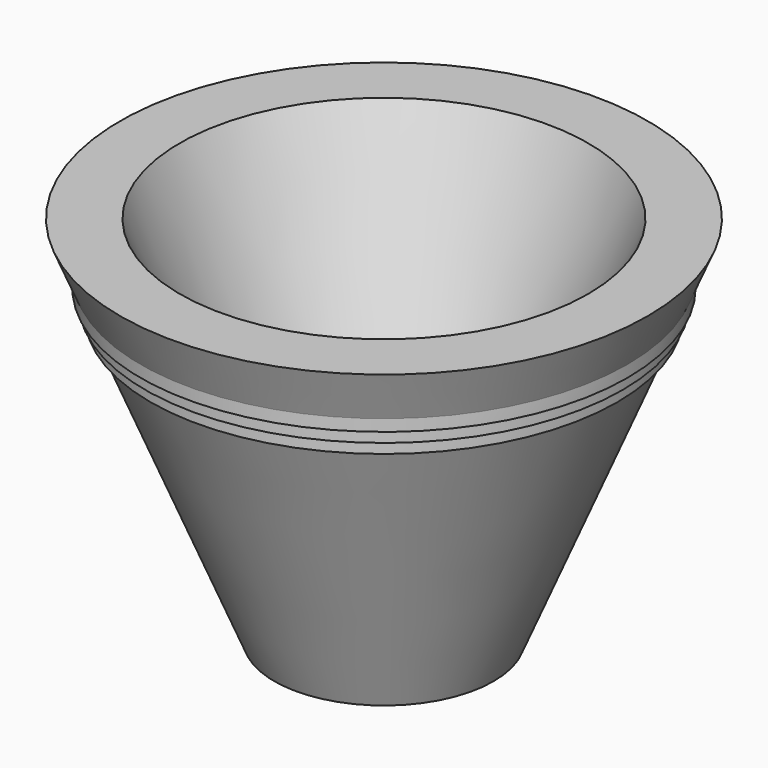
from build123d import *


with BuildPart() as f1:
    # F0 (on Front) → F1 (revolve)
    with BuildSketch(Plane.XZ):
        Polygon((0, 6.744939), (0, 0), (15, 0), (31.217516, 39.082341), (31.917099, 40.768255), (32.610763, 42.439904), (33.271743, 44.032791), (36.079848, 50.8), (27.916824, 50.8), (9.63584, 6.744939), align=None)
        Polygon((31.917099, 40.768255), (31.217516, 39.082341), (31.917099, 39.082341), align=None)
        Polygon((32.610763, 42.439904), (31.917099, 40.768255), (32.610763, 40.768255), align=None)
        Polygon((33.271743, 44.032791), (32.610763, 42.439904), (33.271743, 42.439904), align=None)
    revolve(axis=Axis((0, 0, 25.4), (0, 0, 1)))


solid = f1.part
